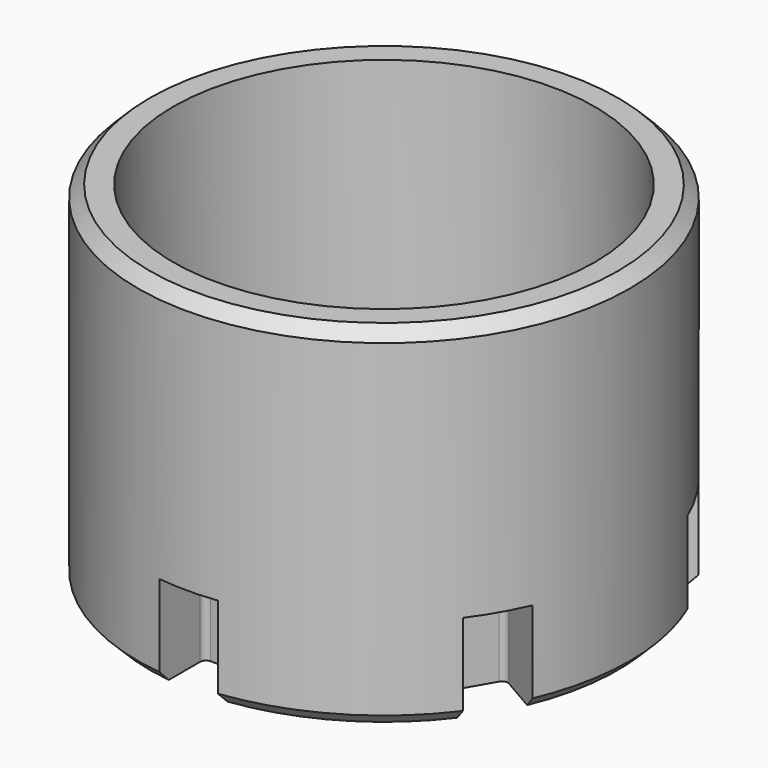
from build123d import *

# Parameters (mm, degrees)
F0_R     = 10.5
F0_R_2   = 6
F1_DEPTH = 15
F2_R     = 9
F2_R_2   = 6
F3_DEPTH = 10
F5_DEPTH = 4
F6_SIZE  = 0.5
F7_SIZE  = 0.5


with BuildPart() as f1:
    # F0 (on Top) → F1 (new body)
    with BuildSketch(Plane.XY):
        Circle(F0_R)
        Circle(F0_R_2, mode=Mode.SUBTRACT)
    extrude(amount=F1_DEPTH)

    # F2 (on face) → F3 (cut)
    with BuildSketch(Plane.XY.offset(15)):
        Circle(F2_R)
        Circle(F2_R_2, mode=Mode.SUBTRACT)
    extrude(amount=-F3_DEPTH, mode=Mode.SUBTRACT)

    # F4 (on face) → F5 (cut)
    with BuildSketch(Plane(origin=(0, 0, 0), x_dir=(1, 0, 0), z_dir=(0, 0, -1))):
        with BuildLine():
            Line((1.25, 8.25), (1.25, 13))
            Line((1.25, 13), (-1.25, 13))
            Line((-1.25, 13), (-1.25, 8.25))
            ThreePointArc((-1.25, 8.25), (-1.1767766953, 8.0732233047), (-1, 8))
            Line((-1, 8), (1, 8))
            ThreePointArc((1, 8), (1.1767766953, 8.0732233047), (1.25, 8.25))
        make_face()
        with BuildLine():
            Line((-6.5197095812, 5.2075317547), (-10.6333302492, 7.5825317547))
            Line((-10.6333302492, 7.5825317547), (-11.8833302492, 5.4174682453))
            Line((-11.8833302492, 5.4174682453), (-7.7697095812, 3.0424682453))
            ThreePointArc((-7.7697095812, 3.0424682453), (-7.5800048199, 3.0174931396), (-7.4282032303, 3.1339745962))
            Line((-7.4282032303, 3.1339745962), (-6.4282032303, 4.8660254038))
            ThreePointArc((-6.4282032303, 4.8660254038), (-6.4032281246, 5.0557301651), (-6.5197095812, 5.2075317547))
        make_face()
        with BuildLine():
            Line((-7.7697095812, -3.0424682453), (-11.8833302492, -5.4174682453))
            Line((-11.8833302492, -5.4174682453), (-10.6333302492, -7.5825317547))
            Line((-10.6333302492, -7.5825317547), (-6.5197095812, -5.2075317547))
            ThreePointArc((-6.5197095812, -5.2075317547), (-6.4032281246, -5.0557301651), (-6.4282032303, -4.8660254038))
            Line((-6.4282032303, -4.8660254038), (-7.4282032303, -3.1339745962))
            ThreePointArc((-7.4282032303, -3.1339745962), (-7.5800048199, -3.0174931396), (-7.7697095812, -3.0424682453))
        make_face()
        with BuildLine():
            Line((-1.25, -8.25), (-1.25, -13))
            Line((-1.25, -13), (1.25, -13))
            Line((1.25, -13), (1.25, -8.25))
            ThreePointArc((1.25, -8.25), (1.1767766953, -8.0732233047), (1, -8))
            Line((1, -8), (-1, -8))
            ThreePointArc((-1, -8), (-1.1767766953, -8.0732233047), (-1.25, -8.25))
        make_face()
        with BuildLine():
            Line((6.5197095812, -5.2075317547), (10.6333302492, -7.5825317547))
            Line((10.6333302492, -7.5825317547), (11.8833302492, -5.4174682453))
            Line((11.8833302492, -5.4174682453), (7.7697095812, -3.0424682453))
            ThreePointArc((7.7697095812, -3.0424682453), (7.5800048199, -3.0174931396), (7.4282032303, -3.1339745962))
            Line((7.4282032303, -3.1339745962), (6.4282032303, -4.8660254038))
            ThreePointArc((6.4282032303, -4.8660254038), (6.4032281246, -5.0557301651), (6.5197095812, -5.2075317547))
        make_face()
        with BuildLine():
            Line((7.7697095812, 3.0424682453), (11.8833302492, 5.4174682453))
            Line((11.8833302492, 5.4174682453), (10.6333302492, 7.5825317547))
            Line((10.6333302492, 7.5825317547), (6.5197095812, 5.2075317547))
            ThreePointArc((6.5197095812, 5.2075317547), (6.4032281246, 5.0557301651), (6.4282032303, 4.8660254038))
            Line((6.4282032303, 4.8660254038), (7.4282032303, 3.1339745962))
            ThreePointArc((7.4282032303, 3.1339745962), (7.5800048199, 3.0174931396), (7.7697095812, 3.0424682453))
        make_face()
    extrude(amount=-F5_DEPTH, mode=Mode.SUBTRACT)

    # F6
    f6_edges = [f1.edges().sort_by_distance(p)[0] for p in [
        (-5.25, -9.093267, 0),
        (5.25, -9.093267, 0),
        (10.286224, 2.107984, 0),
        (5.25, 9.093267, 0),
        (-5.25, 9.093267, 0),
        (-10.5, 0, 0),
    ]]
    chamfer(f6_edges, length=F6_SIZE)

    # F7
    f7_edges = [f1.edges().sort_by_distance(p)[0] for p in [
        (-10.5, 0, 15),
    ]]
    chamfer(f7_edges, length=F7_SIZE)


solid = f1.part
